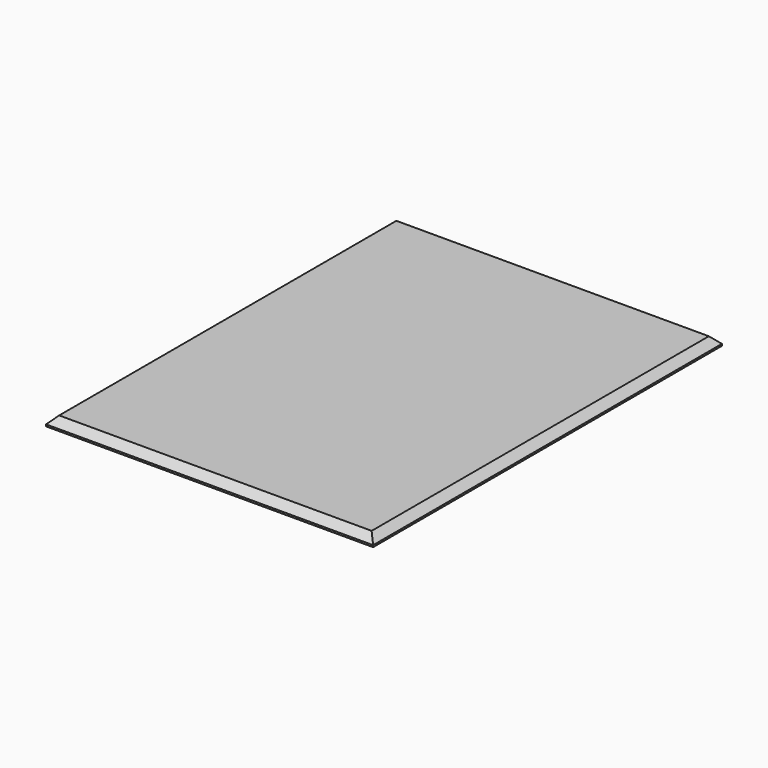
from build123d import *

# Parameters (mm, degrees)
F0_W     = 228.6
F0_H     = 304.8
F1_DEPTH = 6.35
F2_R     = 6.35
F3_DEPTH = 3.175
F4_SIZE  = 5.08


with BuildPart() as f1:
    # F0 (on Top) → F1 (new body)
    with BuildSketch(Plane.XY):
        Rectangle(F0_W, F0_H)
    extrude(amount=F1_DEPTH)

    # F2 (on face) → F3 (cut)
    with BuildSketch(Plane(origin=(0, 0, 0), x_dir=(1, 0, 0), z_dir=(0, 0, -1))):
        Circle(F2_R)
    extrude(amount=-F3_DEPTH, mode=Mode.SUBTRACT)

    # F4
    f4_edges = [f1.edges().sort_by_distance(p)[0] for p in [
        (-114.3, 0, 6.35),
        (0, 152.4, 6.35),
        (114.3, 0, 6.35),
        (0, -152.4, 6.35),
    ]]
    chamfer(f4_edges, length=F4_SIZE)


solid = f1.part
